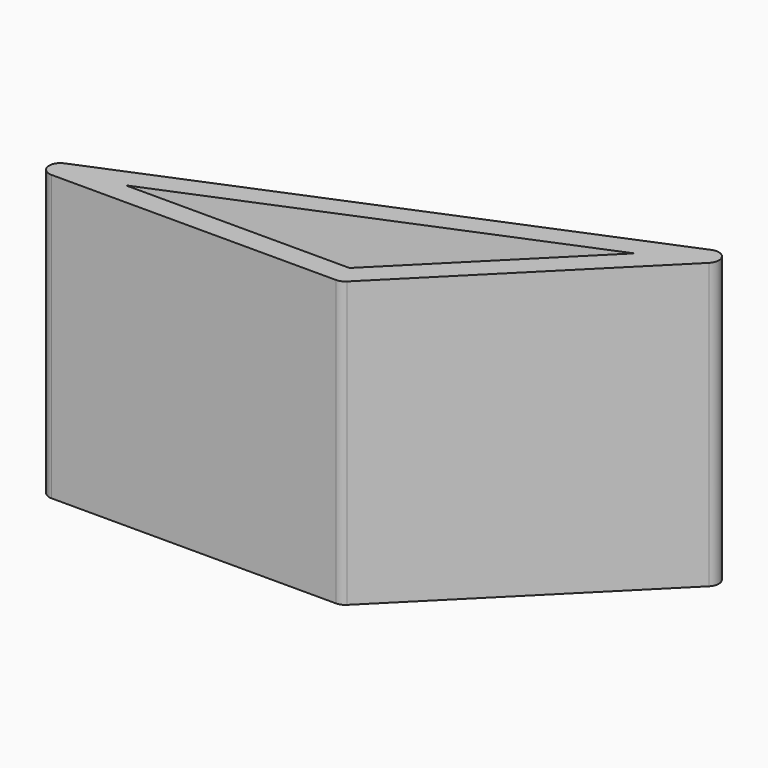
from build123d import *

# Parameters (mm, degrees)
F1_DEPTH = 25.4


with BuildPart() as f1:
    # F0 (on Top) → F1 (new body)
    with BuildSketch(Plane.XY):
        with BuildLine():
            ThreePointArc((4.644656, 1.92388), (4.046554, 0.80491), (5.027339, 0))
            Line((5.027339, 0), (30.427339, 0))
            ThreePointArc((30.427339, 0), (30.810023, 0.07612), (31.134446, 0.292893))
            Line((31.134446, 0.292893), (49.094959, 18.253405))
            ThreePointArc((49.094959, 18.253405), (49.219321, 19.516082), (48.005168, 19.884392))
            Line((48.005168, 19.884392), (4.644656, 1.92388))
        make_face()
        Polygon((10.054679, 2), (44.125879, 16.112753), (30.013126, 2), align=None, mode=Mode.SUBTRACT)
    extrude(amount=F1_DEPTH)


solid = f1.part
